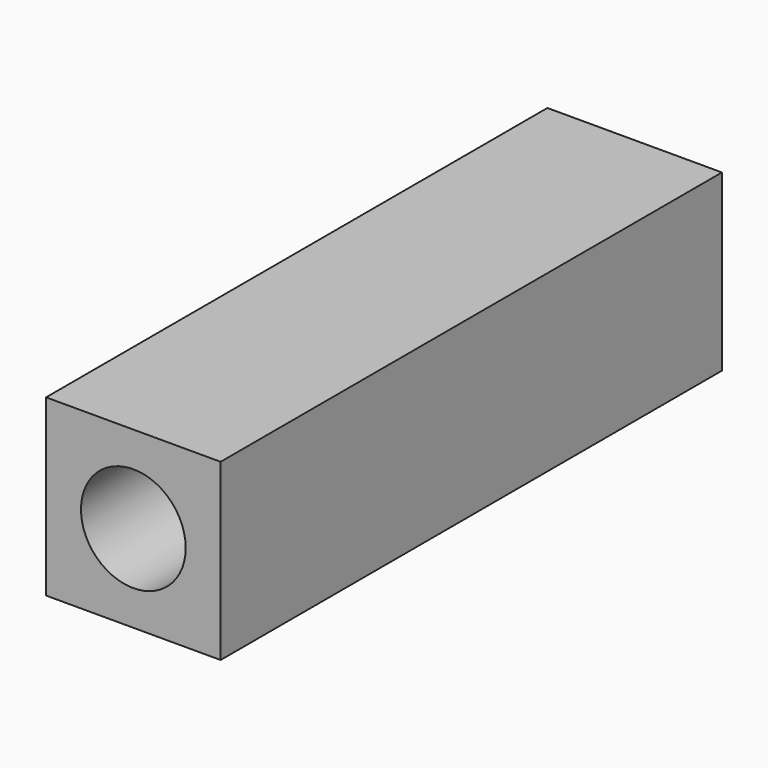
from build123d import *

# Parameters (mm, degrees)
F0_W     = 31.75
F0_H     = 31.75
F0_R     = 9.525
F1_DEPTH = 64
F2_W     = 31.75
F2_H     = 31.75
F2_R     = 11
F3_DEPTH = 50


with BuildPart() as f1:
    # F0 (on Front) → F1 (new body)
    with BuildSketch(Plane.XZ):
        Rectangle(F0_W, F0_H)
        Circle(F0_R, mode=Mode.SUBTRACT)
    extrude(amount=F1_DEPTH)

    # F2 (on face) → F3 (join)
    with BuildSketch(Plane(origin=(0, 0, 0), x_dir=(-1, 0, 0), z_dir=(0, 1, 0))):
        Rectangle(F2_W, F2_H)
        Circle(F2_R, mode=Mode.SUBTRACT)
    extrude(amount=F3_DEPTH)


solid = f1.part
